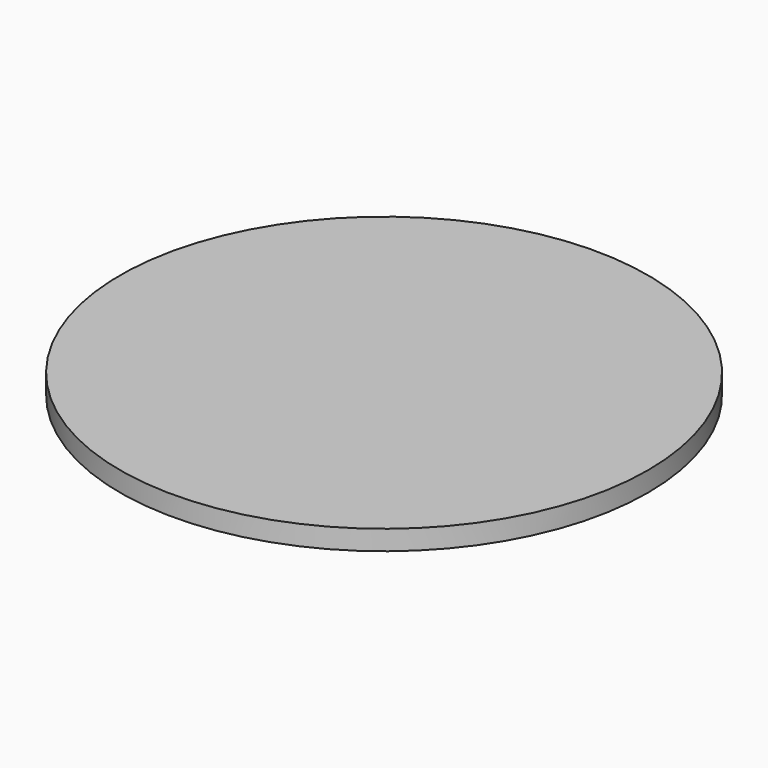
from build123d import *

# Parameters (mm, degrees)
CYLINDER_R     = 0.4
CYLINDER_DEPTH = 0.03


with BuildPart() as part:
    # Cylinder → Cylinder (new body)
    with BuildSketch(Plane.XY):
        Circle(CYLINDER_R)
    extrude(amount=CYLINDER_DEPTH)


solid = part.part
